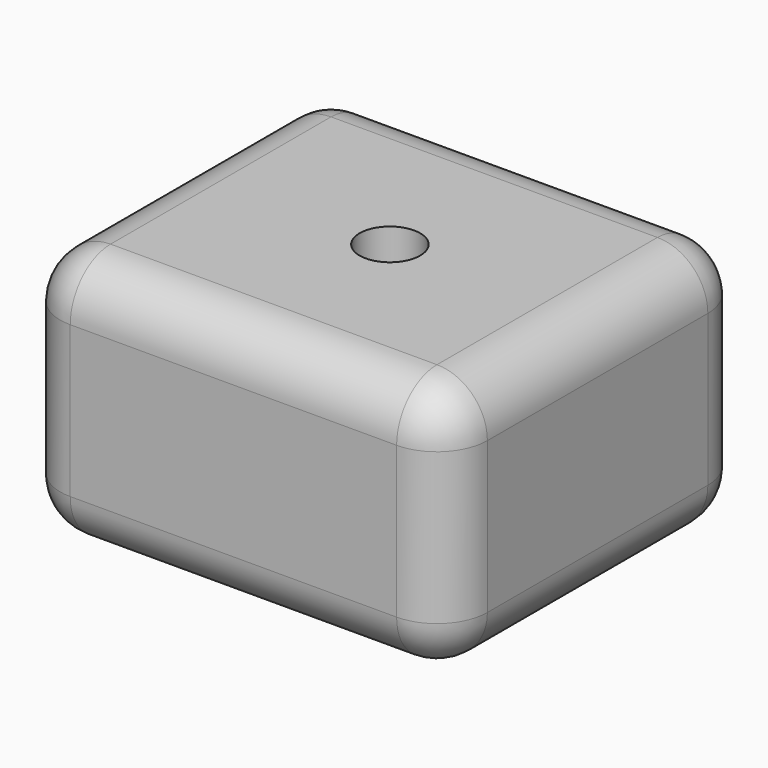
from build123d import *

# Parameters (mm, degrees)
F0_W     = 43.040663
F0_H     = 37.921667
F1_DEPTH = 25.4
F2_R     = 5.08
F3_R     = 3.052253
F4_DEPTH = 25.4


with BuildPart() as f1:
    # F0 (on Top) → F1 (new body)
    with BuildSketch(Plane.XY):
        with Locations((21.520331, 18.960833)):
            Rectangle(F0_W, F0_H)
    extrude(amount=F1_DEPTH)

    # F2
    f2_edges = [f1.edges().sort_by_distance(p)[0] for p in [
        (43.040663, 18.960834, 0),
        (21.520332, 37.921667, 0),
        (21.520332, 0, 0),
        (0, 18.960834, 0),
        (43.040663, 18.960834, 25.4),
        (43.040663, 37.921667, 12.7),
        (43.040663, 0, 12.7),
        (0, 0, 12.7),
        (0, 37.921667, 12.7),
        (21.520332, 37.921667, 25.4),
        (21.520332, 0, 25.4),
        (0, 18.960834, 25.4),
    ]]
    fillet(f2_edges, radius=F2_R)

    # F3 (on face) → F4 (cut)
    with BuildSketch(Plane.XY.offset(25.4)):
        with Locations((22.265185, 18.770991)):
            Circle(F3_R)
    extrude(amount=-F4_DEPTH, mode=Mode.SUBTRACT)


solid = f1.part
